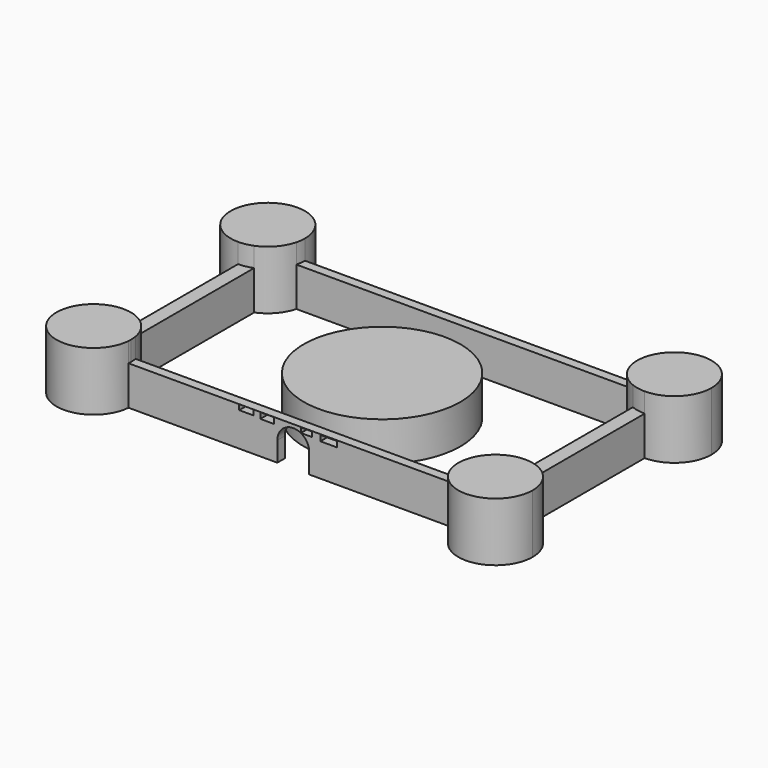
from build123d import *

# Parameters (mm, degrees)
F1_DEPTH = 25.4
F2_DEPTH = 38.1
F4_DEPTH = 25.4
F5_W     = 9.387843
F5_H     = 3.413763
F5_W_2   = 10.668003
F5_H_2   = 3.627116
F6_DEPTH = 25.4
F7_W     = 8.961123
F7_H     = 3.84048
F7_W_2   = 7.040878
F7_H_2   = 3.2004
F8_DEPTH = 25.4
F0_R     = 50.8
F9_DEPTH = 25.4


with BuildPart() as f1:
    # F0 (on Top) → F1 (new body)
    with BuildSketch(Plane.XY):
        with BuildLine():
            ThreePointArc((108.473918, 65.825826), (107.81905, 68.815923), (107.548297, 71.864894))
            Line((107.548297, 71.864894), (-107.540722, 71.864894))
            ThreePointArc((-107.540722, 71.864894), (-107.733632, 68.821006), (-108.309275, 65.825826))
            Line((-108.309275, 65.825826), (108.473918, 65.825826))
        make_face()
        with BuildLine():
            ThreePointArc((-122.592313, 49.520655), (-127.03665, 48.199766), (-131.651642, 47.753974))
            Line((-131.651642, 47.753974), (-131.651642, -45.949293))
            ThreePointArc((-131.651642, -45.949293), (-127.048321, -46.279844), (-122.592313, -47.481437))
            Line((-122.592313, -47.481437), (-122.592313, 49.520655))
        make_face()
        with BuildLine():
            ThreePointArc((-106.958024, -70.053171), (-106.975071, -70.959673), (-107.026188, -71.864894))
            Line((-107.026188, -71.864894), (106.936778, -71.864894))
            ThreePointArc((106.936778, -71.864894), (107.129688, -68.821006), (107.70533, -65.825826))
            Line((107.70533, -65.825826), (-107.331505, -65.825826))
            ThreePointArc((-107.331505, -65.825826), (-107.051576, -67.931265), (-106.958024, -70.053171))
        make_face()
        with BuildLine():
            Line((131.651642, -47.76154), (131.651642, 48.357877))
            ThreePointArc((131.651642, 48.357877), (127.03665, 48.80367), (122.592313, 50.124562))
            Line((122.592313, 50.124562), (122.592313, -49.285192))
            ThreePointArc((122.592313, -49.285192), (127.048741, -48.087914), (131.651642, -47.76154))
        make_face()
    extrude(amount=F1_DEPTH)

    # F3 (on face) → F4 (cut)
    with BuildSketch(Plane.XZ.offset(71.864894)):
        with BuildLine():
            Line((-10.483552, 12.8016), (-10.483552, 0))
            Line((-10.483552, 0), (10.212369, 0))
            Line((10.212369, 0), (10.212369, 12.8016))
            ThreePointArc((10.212369, 12.8016), (7.181522, 20.118713), (-0.135591, 23.14956))
            ThreePointArc((-0.135591, 23.14956), (-7.452704, 20.118713), (-10.483552, 12.8016))
        make_face()
    extrude(amount=-F4_DEPTH, mode=Mode.SUBTRACT)

    # F5 (on face) → F6 (cut)
    with BuildSketch(Plane.XZ.offset(71.864894)):
        with Locations((-30.510481, 23.682961)):
            Rectangle(F5_W, F5_H)
        with Locations((22.80061, 23.14956)):
            Rectangle(F5_W_2, F5_H_2)
    extrude(amount=-F6_DEPTH, mode=Mode.SUBTRACT)

    # F7 (on face) → F8 (cut)
    with BuildSketch(Plane.XZ.offset(71.864894)):
        with Locations((-17.034854, 23.36292)):
            Rectangle(F7_W, F7_H)
        with Locations((8.354986, 23.57628)):
            Rectangle(F7_W_2, F7_H_2)
    extrude(amount=-F8_DEPTH, mode=Mode.SUBTRACT)


with BuildPart() as f2:
    # F0 (on Top) → F2 (new body)
    with BuildSketch(Plane.XY):
        with BuildLine():
            ThreePointArc((-108.309275, 65.825826), (-107.733632, 68.821006), (-107.540722, 71.864894))
            ThreePointArc((-107.540722, 71.864894), (-148.700637, 88.913889), (-131.651642, 47.753974))
            ThreePointArc((-131.651642, 47.753974), (-127.03665, 48.199766), (-122.592313, 49.520655))
            ThreePointArc((-122.592313, 49.520655), (-113.515156, 55.977657), (-108.309275, 65.825826))
        make_face()
        with BuildLine():
            ThreePointArc((155.762572, 72.468797), (131.349678, 96.577825), (107.548297, 71.864894))
            ThreePointArc((107.548297, 71.864894), (107.81905, 68.815923), (108.473918, 65.825826))
            ThreePointArc((108.473918, 65.825826), (113.722914, 56.347482), (122.592313, 50.124562))
            ThreePointArc((122.592313, 50.124562), (127.03665, 48.80367), (131.651642, 48.357877))
            ThreePointArc((131.651642, 48.357877), (148.700644, 55.419798), (155.762572, 72.468797))
        make_face()
        with BuildLine():
            ThreePointArc((-122.592313, -47.481437), (-127.048321, -46.279844), (-131.651642, -45.949293))
            ThreePointArc((-131.651642, -45.949293), (-148.54745, -86.66155), (-107.026188, -71.864894))
            ThreePointArc((-107.026188, -71.864894), (-106.975071, -70.959673), (-106.958024, -70.053171))
            ThreePointArc((-106.958024, -70.053171), (-107.051576, -67.931265), (-107.331505, -65.825826))
            ThreePointArc((-107.331505, -65.825826), (-112.533418, -54.633355), (-122.592313, -47.481437))
        make_face()
        with BuildLine():
            ThreePointArc((155.158617, -71.864894), (148.308898, -55.03078), (131.651642, -47.76154))
            ThreePointArc((131.651642, -47.76154), (127.048741, -48.087914), (122.592313, -49.285192))
            ThreePointArc((122.592313, -49.285192), (113.126414, -55.735292), (107.70533, -65.825826))
            ThreePointArc((107.70533, -65.825826), (107.129688, -68.821006), (106.936778, -71.864894))
            ThreePointArc((106.936778, -71.864894), (131.047697, -95.975814), (155.158617, -71.864894))
        make_face()
    extrude(amount=F2_DEPTH)


with BuildPart() as f9:
    # F0 (on Top) → F9 (new body)
    with BuildSketch(Plane.XY):
        Circle(F0_R)
    extrude(amount=F9_DEPTH)


solid = Compound([f1.part, f2.part, f9.part])
